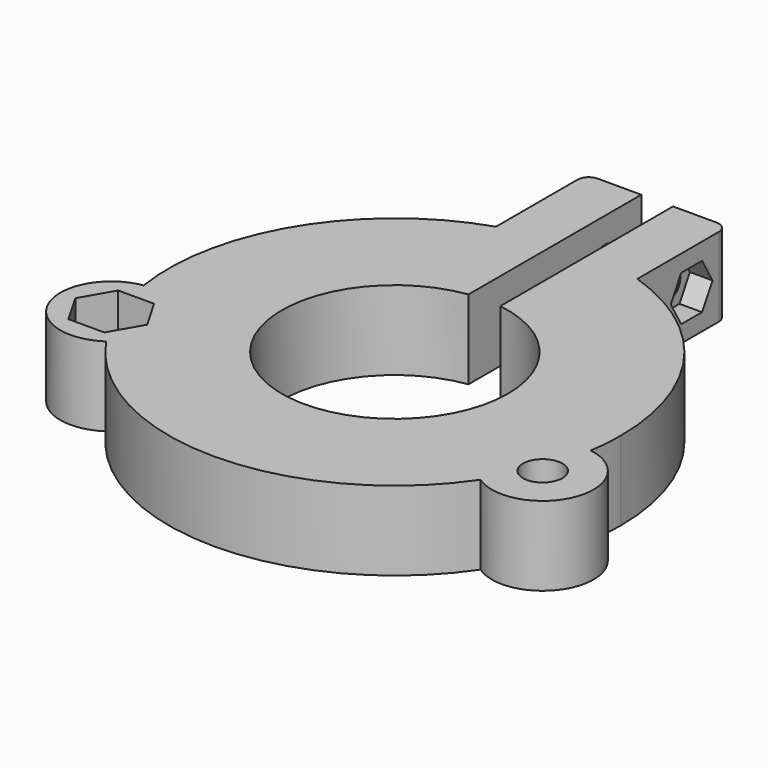
from build123d import *

# Parameters (mm, degrees)
F1_DEPTH  = 14
F3_DEPTH  = 25
F4_R      = 9
F5_DEPTH  = 14
F6_R      = 3.5
F7_DEPTH  = 25
F8_R      = 2.5
F9_DEPTH  = 25
F11_DEPTH = 4
F13_DEPTH = 8
F15_DEPTH = 8
F16_R     = 2


with BuildPart() as f1:
    # F0 (on Top) → F1 (new body)
    with BuildSketch(Plane.XY):
        with BuildLine():
            ThreePointArc((-12.5, 37.9967103839), (-23.4520787991, -32.403703492), (40, 0))
            ThreePointArc((40, 0), (32.403703492, 23.4520787991), (12.5, 37.9967103839))
            Line((12.5, 37.9967103839), (-12.5, 37.9967103839))
        make_face()
        with BuildLine():
            Line((-12.5, 37.9967103839), (12.5, 37.9967103839))
            ThreePointArc((12.5, 37.9967103839), (0, 40), (-12.5, 37.9967103839))
        make_face()
        with BuildLine():
            ThreePointArc((-12.5, 37.9967103839), (0, 40), (12.5, 37.9967103839))
            Line((12.5, 37.9967103839), (12.5, 57.9967103839))
            Line((12.5, 57.9967103839), (-12.5, 57.9967103839))
            Line((-12.5, 57.9967103839), (-12.5, 37.9967103839))
        make_face()
    extrude(amount=F1_DEPTH)

    # F2 (on face) → F3 (cut)
    with BuildSketch(Plane.XY.offset(14)):
        with BuildLine():
            ThreePointArc((-2.807373056, 19.8019861762), (-13.112065796, -15.102110136), (20, 0))
            ThreePointArc((20, 0), (15.102110136, 13.112065796), (2.807373056, 19.8019861762))
            Line((2.807373056, 19.8019861762), (-2.807373056, 19.8019861762))
        make_face()
        with BuildLine():
            Line((-2.807373056, 19.8019861762), (2.807373056, 19.8019861762))
            ThreePointArc((2.807373056, 19.8019861762), (0, 20), (-2.807373056, 19.8019861762))
        make_face()
        with BuildLine():
            ThreePointArc((-2.807373056, 19.8019861762), (0, 20), (2.807373056, 19.8019861762))
            Line((2.807373056, 19.8019861762), (2.807373056, 57.9967103839))
            Line((2.807373056, 57.9967103839), (-2.807373056, 57.9967103839))
            Line((-2.807373056, 57.9967103839), (-2.807373056, 19.8019861762))
        make_face()
    extrude(amount=-F3_DEPTH, mode=Mode.SUBTRACT)

    # F4 (on Top) → F5 (join)
    with BuildSketch(Plane.XY):
        with Locations((-38.1575680567, -15)):
            Circle(F4_R)
        with Locations((38.1575680567, -15)):
            Circle(F4_R)
    extrude(amount=F5_DEPTH)

    # F6 (on face) → F7 (cut)
    with BuildSketch(Plane.XY.offset(14)):
        with Locations((-38.1575680567, -15)):
            Circle(F6_R)
        with Locations((38.1575680567, -15)):
            Circle(F6_R)
    extrude(amount=-F7_DEPTH, mode=Mode.SUBTRACT)

    # F8 (on face) → F9 (cut)
    with BuildSketch(Plane(origin=(-12.5, 0, 0), x_dir=(0, -1, 0), z_dir=(-1, 0, 0))):
        with Locations((-49.9967103839, 7)):
            Circle(F8_R)
    extrude(amount=-F9_DEPTH, mode=Mode.SUBTRACT)

    # F10 (on face) → F11 (cut)
    with BuildSketch(Plane.YZ.offset(12.5)):
        Polygon((54.6155125374, 7), (52.3061114607, 11), (47.6873093072, 11), (45.3779082304, 7), (47.6873093072, 3), (52.3061114607, 3), align=None)
    extrude(amount=-F11_DEPTH, mode=Mode.SUBTRACT)

    # F12 (on face) → F13 (cut)
    with BuildSketch(Plane(origin=(0, 0, 0), x_dir=(1, 0, 0), z_dir=(0, 0, -1))):
        Polygon((41.3329945372, 20.5), (34.9821415761, 20.5), (31.8067150956, 15), (34.9821415761, 9.5), (41.3329945372, 9.5), (44.5084210178, 15), align=None)
    extrude(amount=-F13_DEPTH, mode=Mode.SUBTRACT)

    # F14 (on face) → F15 (cut)
    with BuildSketch(Plane.XY.offset(14)):
        Polygon((-31.8067150956, -15), (-34.9821415761, -9.5), (-41.3329945372, -9.5), (-44.5084210178, -15), (-41.3329945372, -20.5), (-34.9821415761, -20.5), align=None)
    extrude(amount=-F15_DEPTH, mode=Mode.SUBTRACT)

    # F16
    f16_edges = [f1.edges().sort_by_distance(p)[0] for p in [
        (12.5, 57.99671, 7),
        (-12.5, 57.99671, 7),
    ]]
    fillet(f16_edges, radius=F16_R)


solid = f1.part
